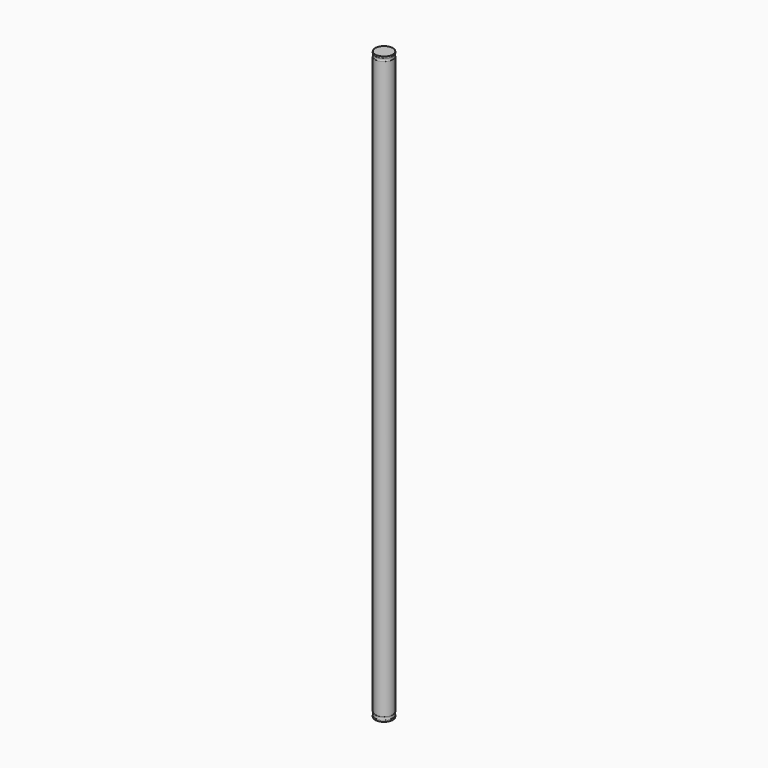
from build123d import *

# Parameters (mm, degrees)
TORUS001_R     = 2
TORUS_R        = 2
CYLINDER_R     = 5.75
CYLINDER_DEPTH = 383


with BuildPart() as torus001:
    # Torus001 → Torus001 (revolve)
    with BuildSketch(Plane(origin=(0, 0, 381), x_dir=(1, 0, 0), z_dir=(0, -1, 0))):
        with Locations((7.5, 0)):
            Circle(TORUS001_R)
    revolve(axis=Axis((0, 0, 381), (0, 0, 1)))


with BuildPart() as torus:
    # Torus → Torus (revolve)
    with BuildSketch(Plane(origin=(0, 0, 2), x_dir=(1, 0, 0), z_dir=(0, -1, 0))):
        with Locations((7.5, 0)):
            Circle(TORUS_R)
    revolve(axis=Axis((0, 0, 2), (0, 0, 1)))


with BuildPart() as cut001:
    # Cylinder → Cylinder (new body)
    with BuildSketch(Plane.XY):
        Circle(CYLINDER_R)
    extrude(amount=CYLINDER_DEPTH)

    # Cut: cut Torus
    add(torus.part, mode=Mode.SUBTRACT)

    # Cut001: cut Torus001
    add(torus001.part, mode=Mode.SUBTRACT)


solid = cut001.part
